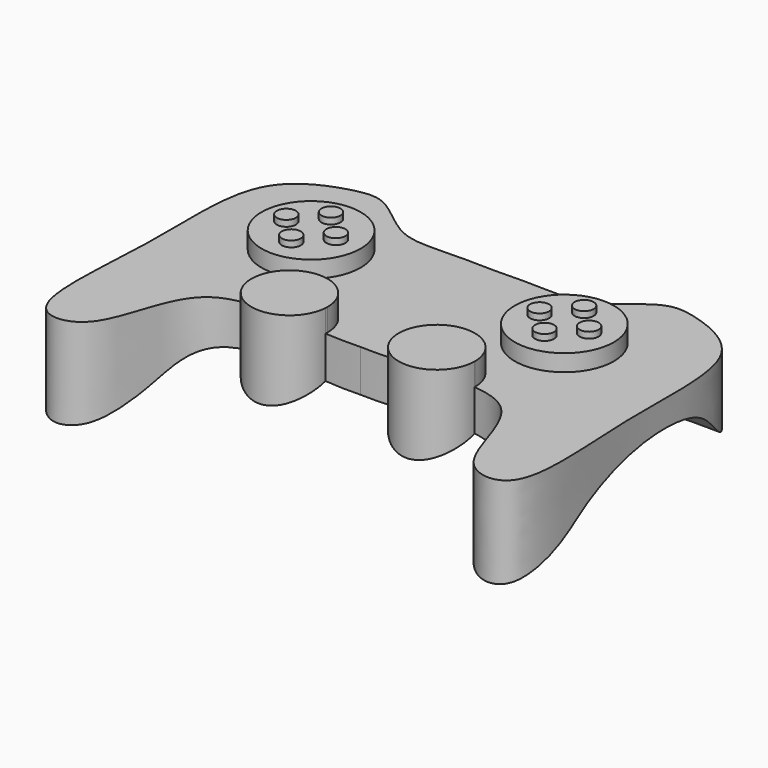
from build123d import *

# Parameters (mm, degrees)
F0_R     = 13
F2_DEPTH = 25
F3_DEPTH = 30.9
F0_R_2   = 2.5
F4_DEPTH = 29.4
F5_DEPTH = 31
F6_DEPTH = 75


with BuildPart() as f2:
    # F0 (on Top) → F2 (new body)
    with BuildSketch(Plane.XY):
        with BuildLine():
            add(Edge.make_bspline(
                [(0, -8.079235442), (-3.0483983963, -8.1986975244), (-6.1994153693, -8.0917012087), (-9.3461765281, -7.9114143305)],
                knots=[0, 0, 0, 0, 0.031339253, 0.031339253, 0.031339253, 0.031339253], degree=3))
            add(Edge.make_bspline(
                [(0, -8.079235442), (3.0483983963, -8.1986975244), (6.1994153693, -8.0917012087), (9.3461765281, -7.9114143305)],
                knots=[0, 0, 0, 0, 0.031339253, 0.031339253, 0.031339253, 0.031339253], degree=3))
            ThreePointArc((9.3461765281, -7.9114143305), (19.0032038848, 2.7274766424), (29.3254128098, -7.26733108))
            ThreePointArc((29.3254128098, -7.26733108), (29.3253665648, -7.2977432222), (29.3252278302, -7.3281550831))
            add(Edge.make_bspline(
                [(29.3252278302, -7.3281550831), (33.0482665036, -7.7122964318), (44.841307004, -11.1886513902), (45.8092661883, -36.394373714), (66.8314948386, -39.0395255461), (61.0977731553, 1.399084426), (65.3088095974, 37.6936155501), (45.0525753573, 45.7529087015), (35.954247511, 46.4993675571), (23.6486939819, 33.1621102555), (13.4554859251, 36.1173562706), (0, 35.5448648334)],
                knots=[0.1019350425, 0.1019350425, 0.1019350425, 0.1019350425, 0.1470666018, 0.2674871541, 0.3443350328, 0.4848215634, 0.6271883969, 0.7247756759, 0.7936801351, 0.8822978334, 1, 1, 1, 1], degree=3))
            add(Edge.make_bspline(
                [(-29.3252278302, -7.3281550831), (-33.0482665036, -7.7122964318), (-44.841307004, -11.1886513902), (-45.8092661883, -36.394373714), (-66.8314948386, -39.0395255461), (-61.0977731553, 1.399084426), (-65.3088095974, 37.6936155501), (-45.0525753573, 45.7529087015), (-35.954247511, 46.4993675571), (-23.6486939819, 33.1621102555), (-13.4554859251, 36.1173562706), (0, 35.5448648334)],
                knots=[0.1019350425, 0.1019350425, 0.1019350425, 0.1019350425, 0.1470666018, 0.2674871541, 0.3443350328, 0.4848215634, 0.6271883969, 0.7247756759, 0.7936801351, 0.8822978334, 1, 1, 1, 1], degree=3))
            ThreePointArc((-29.3252278302, -7.3281550831), (-19.355824952, 2.7326226749), (-9.3254128098, -7.26733108))
            ThreePointArc((-9.3254128098, -7.26733108), (-9.3306050874, -7.5895400051), (-9.3461765281, -7.9114143305))
        make_face()
        with Locations((-34.9842645228, 19.404226914)):
            Circle(F0_R, mode=Mode.SUBTRACT)
        with Locations((31.4601156484, 19.404226914)):
            Circle(F0_R, mode=Mode.SUBTRACT)
    extrude(amount=F2_DEPTH)

    # F0 (on Top) → F3 (join)
    with BuildSketch(Plane.XY):
        with BuildLine():
            add(Edge.make_bspline(
                [(9.3461765281, -7.9114143305), (16.4346699469, -7.5052944233), (23.5015678796, -6.7272726363), (29.3252278302, -7.3281550831)],
                knots=[0.031339253, 0.031339253, 0.031339253, 0.031339253, 0.1019350425, 0.1019350425, 0.1019350425, 0.1019350425], degree=3))
            ThreePointArc((9.3461765281, -7.9114143305), (19.6172238935, -17.2630724878), (29.3252278302, -7.3281550831))
        make_face()
        with BuildLine():
            ThreePointArc((29.3254128098, -7.26733108), (19.0032038848, 2.7274766424), (9.3461765281, -7.9114143305))
            add(Edge.make_bspline(
                [(9.3461765281, -7.9114143305), (16.4346699469, -7.5052944233), (23.5015678796, -6.7272726363), (29.3252278302, -7.3281550831)],
                knots=[0.031339253, 0.031339253, 0.031339253, 0.031339253, 0.1019350425, 0.1019350425, 0.1019350425, 0.1019350425], degree=3))
            ThreePointArc((29.3252278302, -7.3281550831), (29.3253665648, -7.2977432222), (29.3254128098, -7.26733108))
        make_face()
        with BuildLine():
            add(Edge.make_bspline(
                [(-9.3461765281, -7.9114143305), (-16.4346699469, -7.5052944233), (-23.5015678796, -6.7272726363), (-29.3252278302, -7.3281550831)],
                knots=[0.031339253, 0.031339253, 0.031339253, 0.031339253, 0.1019350425, 0.1019350425, 0.1019350425, 0.1019350425], degree=3))
            ThreePointArc((-9.3461765281, -7.9114143305), (-9.3306050874, -7.5895400051), (-9.3254128098, -7.26733108))
            ThreePointArc((-9.3254128098, -7.26733108), (-19.355824952, 2.7326226749), (-29.3252278302, -7.3281550831))
        make_face()
        with BuildLine():
            ThreePointArc((-29.3252278302, -7.3281550831), (-19.6172238935, -17.2630724878), (-9.3461765281, -7.9114143305))
            add(Edge.make_bspline(
                [(-9.3461765281, -7.9114143305), (-16.4346699469, -7.5052944233), (-23.5015678796, -6.7272726363), (-29.3252278302, -7.3281550831)],
                knots=[0.031339253, 0.031339253, 0.031339253, 0.031339253, 0.1019350425, 0.1019350425, 0.1019350425, 0.1019350425], degree=3))
        make_face()
    extrude(amount=F3_DEPTH)

    # F0 (on Top) → F4 (join)
    with BuildSketch(Plane.XY):
        with Locations((31.4601156484, 19.404226914)):
            Circle(F0_R)
        with Locations((31.4601156484, 12.904226914)):
            Circle(F0_R_2, mode=Mode.SUBTRACT)
        with Locations((24.9601156484, 19.404226914)):
            Circle(F0_R_2, mode=Mode.SUBTRACT)
        with Locations((37.9601156484, 19.404226914)):
            Circle(F0_R_2, mode=Mode.SUBTRACT)
        with Locations((31.4601156484, 25.904226914)):
            Circle(F0_R_2, mode=Mode.SUBTRACT)
        with Locations((-34.9842645228, 19.404226914)):
            Circle(F0_R)
        with Locations((-34.9842645228, 12.904226914)):
            Circle(F0_R_2, mode=Mode.SUBTRACT)
        with Locations((-41.4842645228, 19.404226914)):
            Circle(F0_R_2, mode=Mode.SUBTRACT)
        with Locations((-28.4842645228, 19.404226914)):
            Circle(F0_R_2, mode=Mode.SUBTRACT)
        with Locations((-34.9842645228, 25.904226914)):
            Circle(F0_R_2, mode=Mode.SUBTRACT)
    extrude(amount=F4_DEPTH)

    # F0 (on Top) → F5 (join)
    with BuildSketch(Plane.XY):
        with Locations((31.4601156484, 25.904226914)):
            Circle(F0_R_2)
        with Locations((37.9601156484, 19.404226914)):
            Circle(F0_R_2)
        with Locations((31.4601156484, 12.904226914)):
            Circle(F0_R_2)
        with Locations((24.9601156484, 19.404226914)):
            Circle(F0_R_2)
        with Locations((-34.9842645228, 25.904226914)):
            Circle(F0_R_2)
        with Locations((-28.4842645228, 19.404226914)):
            Circle(F0_R_2)
        with Locations((-41.4842645228, 19.404226914)):
            Circle(F0_R_2)
        with Locations((-34.9842645228, 12.904226914)):
            Circle(F0_R_2)
    extrude(amount=F5_DEPTH)

    # F1 (on Right) → F6 (cut, symmetric)
    with BuildSketch(Plane.YZ):
        with BuildLine():
            add(Edge.make_bspline(
                [(-37.5053001126, 0.6273190367), (-19.8627131118, 5.7995634185), (-19.3920598033, 12.1947366331), (29.6659538181, 25.1244488069), (35.7930695848, -0.5184646495), (46.8205697834, 14.0220327303)],
                knots=[0, 0, 0, 0, 0.3299011609, 0.7129600654, 1, 1, 1, 1], degree=3))
            Line((-37.5053001126, 0.6273190367), (-36.9674041867, -1.4457032084))
            Line((-36.9674041867, -1.4457032084), (46.8205697834, -1.4457032084))
            Line((46.8205697834, -1.4457032084), (46.8205697834, 14.0220327303))
        make_face()
    extrude(amount=F6_DEPTH, both=True, mode=Mode.SUBTRACT)


solid = f2.part
